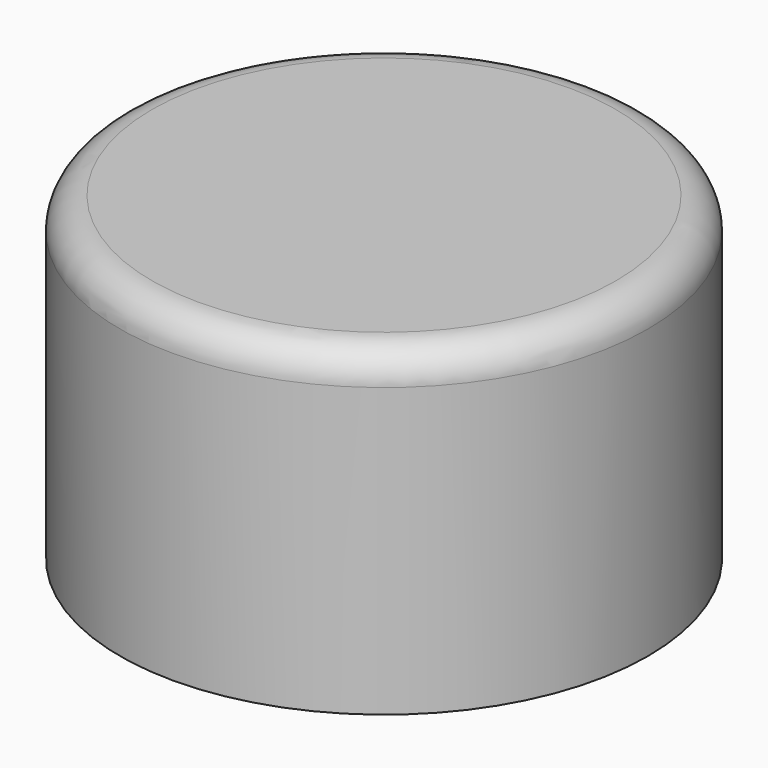
from build123d import *

# Parameters (mm, degrees)
CYLINDER022_R     = 6
CYLINDER022_DEPTH = 4.5
PAD105_DEPTH      = 7
CYLINDER007_R     = 16.5
CYLINDER007_DEPTH = 20
FILLET013_R       = 2


with BuildPart() as obj1:
    # Cylinder022 → Cylinder022 (new body)
    with BuildSketch(Plane.XY.offset(-1.5)):
        Circle(CYLINDER022_R)
    extrude(amount=CYLINDER022_DEPTH)


with BuildPart() as obj2:
    # Sketch082 → Pad105 (new body)
    with BuildSketch(Plane.XY):
        with BuildLine():
            Line((1.630229, 2.85), (1.630229, -2.85))
            ThreePointArc((1.630229, 2.85), (-3.283313, 0), (1.630229, -2.85))
        make_face()
    extrude(amount=PAD105_DEPTH)


with BuildPart() as obj2_1:
    # Body018 placement: moved
    add(obj2.part.moved(Location((0, 0, 3))))


with BuildPart() as obj3:
    # Cylinder007 → Cylinder007 (new body)
    with BuildSketch(Plane.XY.offset(-1.5)):
        Circle(CYLINDER007_R)
    extrude(amount=CYLINDER007_DEPTH)

    # Cut018: cut obj2
    add(obj2_1.part, mode=Mode.SUBTRACT)

    # Cut024: cut obj1
    add(obj1.part, mode=Mode.SUBTRACT)

    # Fillet013
    fillet013_edges = [obj3.edges().sort_by_distance(p)[0] for p in [
        (-16.5, 0, 18.5),
    ]]
    fillet(fillet013_edges, radius=FILLET013_R)


solid = obj3.part
